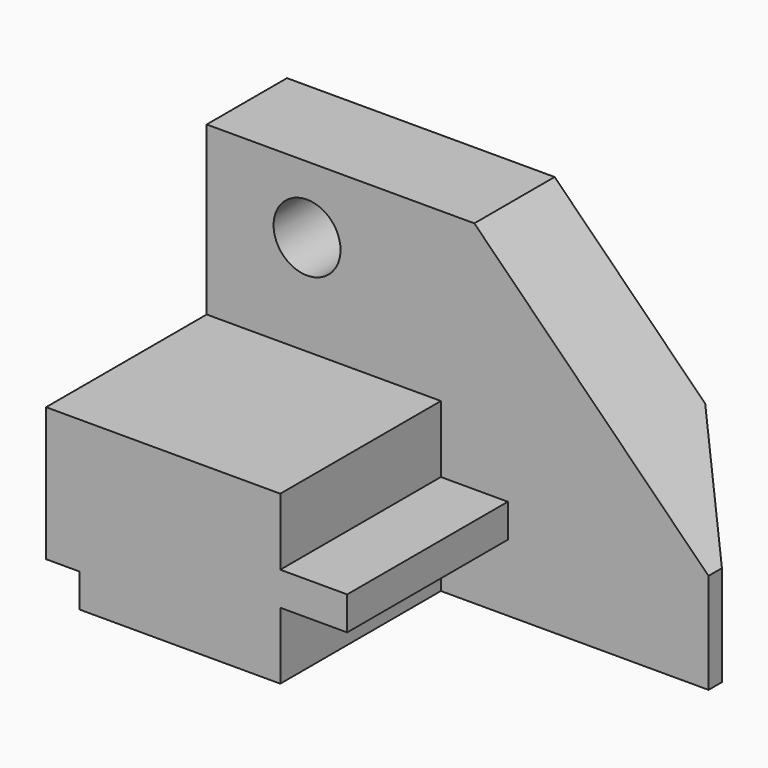
from build123d import *

# Parameters (mm, degrees)
F0_W      = 107.95
F0_H      = 63.5
F1_DEPTH  = 57.15
F2_W      = 6.35
F2_H      = 6.35
F3_DEPTH  = 57.151
F4_W      = 12.7
F4_H      = 63.5
F5_DEPTH  = 57.151
F7_DEPTH  = 63.501
F9_DEPTH  = 38.1
F11_DEPTH = 25.4
F12_R     = 6.35
F13_DEPTH = 25.4


with BuildPart() as f1:
    # F0 (on Front) → F1 (new body)
    with BuildSketch(Plane.XZ):
        with Locations((53.975, 31.75)):
            Rectangle(F0_W, F0_H)
    extrude(amount=F1_DEPTH)

    # F2 (on face) → F3 (cut, through all)
    with BuildSketch(Plane.XZ.offset(57.15)):
        with Locations((3.175, 3.175)):
            Rectangle(F2_W, F2_H)
    extrude(amount=-F3_DEPTH, mode=Mode.SUBTRACT)

    # F4 (on face) → F5 (cut, through all)
    with BuildSketch(Plane.XZ.offset(57.15)):
        with Locations((101.6, 31.75)):
            Rectangle(F4_W, F4_H)
    extrude(amount=-F5_DEPTH, mode=Mode.SUBTRACT)

    # F6 (on face) → F7 (cut, through all)
    with BuildSketch(Plane.XY.offset(63.5)):
        Polygon((95.25, -15.875), (95.25, 0), (79.375, 0), align=None)
    extrude(amount=-F7_DEPTH, mode=Mode.SUBTRACT)

    # F8 (on face) → F9 (cut)
    with BuildSketch(Plane.XZ.offset(57.15)):
        Polygon((95.25, 63.5), (0, 63.5), (0, 31.75), (44.45, 31.75), (44.45, 19.05), (57.15, 19.05), (57.15, 12.7), (44.45, 12.7), (44.45, 0), (95.25, 0), align=None)
    extrude(amount=-F9_DEPTH, mode=Mode.SUBTRACT)

    # F10 (on face) → F11 (cut)
    with BuildSketch(Plane.XZ.offset(19.05)):
        Polygon((95.25, 19.05), (95.25, 63.5), (50.8, 63.5), align=None)
    extrude(amount=-F11_DEPTH, mode=Mode.SUBTRACT)

    # F12 (on face) → F13 (cut)
    with BuildSketch(Plane.XZ.offset(19.05)):
        with Locations((19.05, 50.8)):
            Circle(F12_R)
    extrude(amount=-F13_DEPTH, mode=Mode.SUBTRACT)


solid = f1.part
